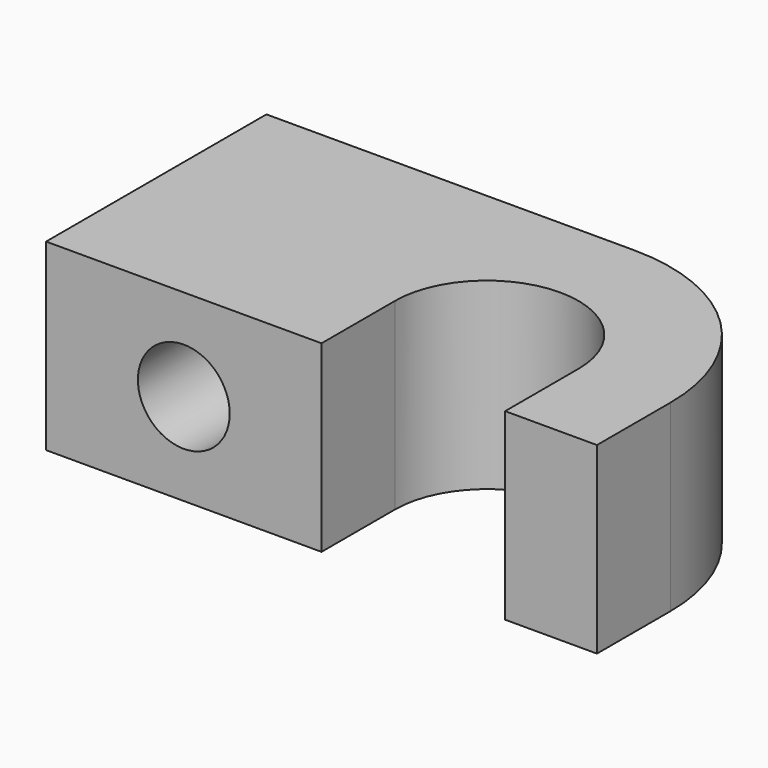
from build123d import *

# Parameters (mm, degrees)
F1_W     = 3.175
F1_H     = 9.525
F2_DEPTH = 6.35
F3_R     = 1.5875
F4_DEPTH = 9.525


with BuildPart() as f2:
    # F1 (on Top) → F2 (new body)
    with BuildSketch(Plane.XY):
        with Locations((-11.1125, 1.5875)):
            Rectangle(F1_W, F1_H)
        with Locations((-7.9375, 1.5875)):
            Rectangle(F1_W, F1_H)
        with BuildLine():
            ThreePointArc((-3.175, 0), (0, 3.175), (3.175, 0))
            Line((3.175, 0), (3.175, -3.175))
            Line((3.175, -3.175), (6.35, -3.175))
            Line((6.35, -3.175), (6.35, 0))
            ThreePointArc((6.35, 0), (4.4901280605, 4.4901280605), (0, 6.35))
            Line((0, 6.35), (-6.35, 6.35))
            Line((-6.35, 6.35), (-6.35, -3.175))
            Line((-6.35, -3.175), (-3.175, -3.175))
            Line((-3.175, -3.175), (-3.175, 0))
        make_face()
    extrude(amount=F2_DEPTH)

    # F3 (on face) → F4 (cut, through all)
    with BuildSketch(Plane.XZ.offset(3.175)):
        with Locations((-7.9375, 3.175)):
            Circle(F3_R)
    extrude(amount=-F4_DEPTH, mode=Mode.SUBTRACT)


solid = f2.part
